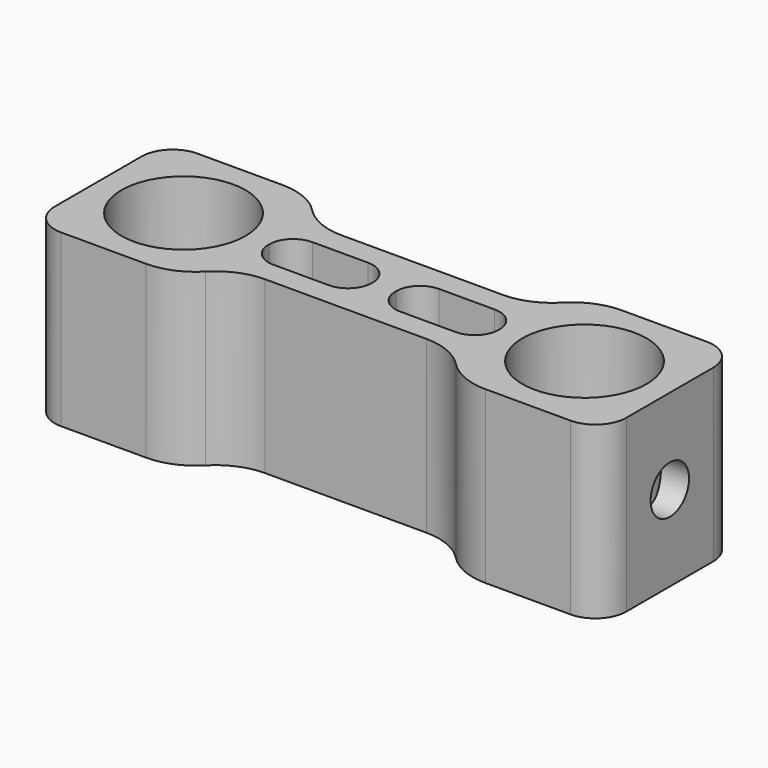
from build123d import *

# Parameters (mm, degrees)
F0_R     = 8
F1_DEPTH = 22
F2_R     = 4
F3_R     = 3.1
F4_R     = 8
F5_R     = 8
F6_R     = 3.1
F7_DEPTH = 73.701


with BuildPart() as f1:
    # F0 (on Top) → F1 (new body)
    with BuildSketch(Plane.XY):
        Polygon((17.85, -11), (36.85, -11), (36.85, 11), (17.85, 11), (14.85, 6.15), (0, 6.15), (-14.85, 6.15), (-17.85, 11), (-36.85, 11), (-36.85, -11), (-17.85, -11), (-14.85, -6.15), (0, -6.15), (14.85, -6.15), align=None)
        with Locations((-25.85, 0)):
            Circle(F0_R, mode=Mode.SUBTRACT)
        Polygon((1.5, 3.15), (14.85, 3.15), (14.85, -3.15), (1.5, -3.15), (0, -3.15), (-1.5, -3.15), (-14.85, -3.15), (-14.85, 3.15), (-1.5, 3.15), (0, 3.15), align=None, mode=Mode.SUBTRACT)
        with Locations((25.85, 0)):
            Circle(F0_R, mode=Mode.SUBTRACT)
        Polygon((1.5, -3.15), (1.5, 3.15), (0, 3.15), (-1.5, 3.15), (-1.5, -3.15), (0, -3.15), align=None)
    extrude(amount=F1_DEPTH)

    # F2
    f2_edges = [f1.edges().sort_by_distance(p)[0] for p in [
        (36.85, -11, 11),
        (36.85, 11, 11),
        (-36.85, 11, 11),
        (-36.85, -11, 11),
    ]]
    fillet(f2_edges, radius=F2_R)

    # F3
    f3_edges = [f1.edges().sort_by_distance(p)[0] for p in [
        (-14.85, 3.15, 11),
        (14.85, 3.15, 11),
        (14.85, -3.15, 11),
        (-14.85, -3.15, 11),
        (1.5, 3.15, 11),
        (-1.5, 3.15, 11),
        (-1.5, -3.15, 11),
        (1.5, -3.15, 11),
    ]]
    fillet(f3_edges, radius=F3_R)

    # F4
    f4_edges = [f1.edges().sort_by_distance(p)[0] for p in [
        (-14.85, 6.15, 11),
        (14.85, 6.15, 11),
        (-14.85, -6.15, 11),
        (14.85, -6.15, 11),
    ]]
    fillet(f4_edges, radius=F4_R)

    # F5
    f5_edges = [f1.edges().sort_by_distance(p)[0] for p in [
        (17.85, -11, 11),
        (-17.85, -11, 11),
        (-17.85, 11, 11),
        (17.85, 11, 11),
    ]]
    fillet(f5_edges, radius=F5_R)

    # F6 (on face) → F7 (cut, through all)
    with BuildSketch(Plane.YZ.offset(36.85)):
        with Locations((0, 11)):
            Circle(F6_R)
    extrude(amount=-F7_DEPTH, mode=Mode.SUBTRACT)


solid = f1.part
